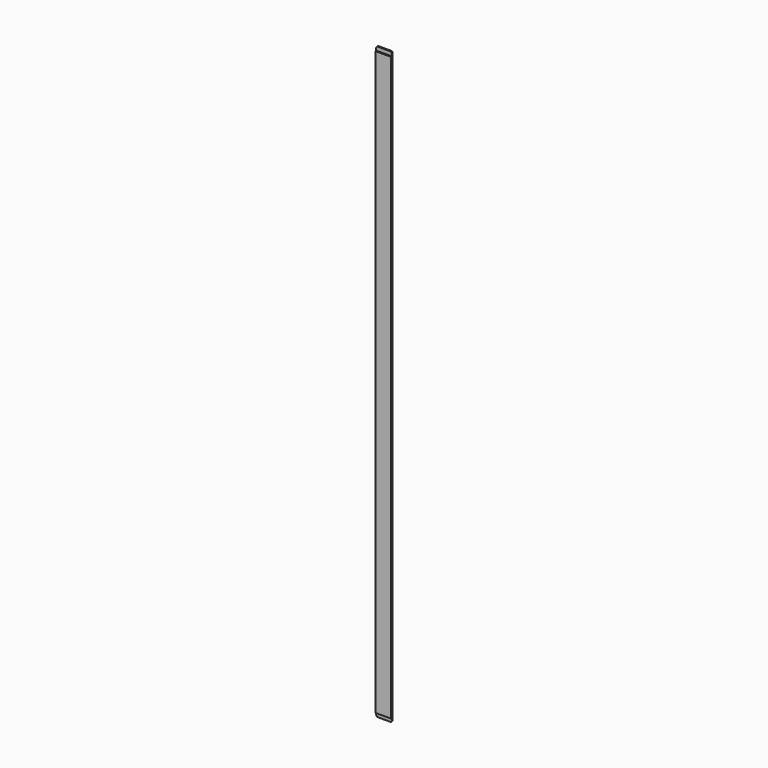
from build123d import *

# Parameters (mm, degrees)
F0_W     = 20
F0_H     = 760
F1_DEPTH = 3
F2_W     = 20
F2_H     = 5
F3_DEPTH = 1.5
F4_R     = 2


with BuildPart() as f1:
    # F0 (on Front) → F1 (new body)
    with BuildSketch(Plane.XZ):
        Rectangle(F0_W, F0_H)
    extrude(amount=F1_DEPTH)

    # F2 (on face) → F3 (cut)
    with BuildSketch(Plane.XZ.offset(3)):
        with Locations((0, 377.5)):
            Rectangle(F2_W, F2_H)
        with Locations((0, -377.5)):
            Rectangle(F2_W, F2_H)
    extrude(amount=-F3_DEPTH, mode=Mode.SUBTRACT)

    # F4
    f4_edges = [f1.edges().sort_by_distance(p)[0] for p in [
        (10, -0.75, -380),
        (-10, -0.75, -380),
        (-10, -0.75, 380),
        (10, -0.75, 380),
    ]]
    fillet(f4_edges, radius=F4_R)


solid = f1.part
